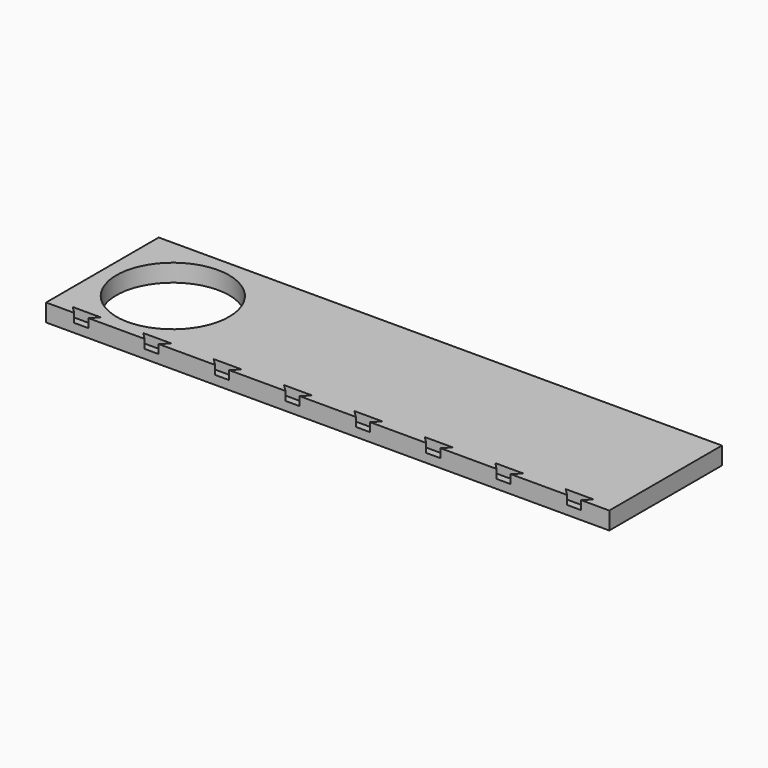
from build123d import *

# Parameters (mm, degrees)
F0_W     = 160
F0_H     = 40
F1_DEPTH = 5
F2_R     = 16
F3_DEPTH = 5
F5_DEPTH = 2.5


with BuildPart() as f1:
    # F0 (on Top) → F1 (new body)
    with BuildSketch(Plane.XY):
        with Locations((12.406252, 38.980732)):
            Rectangle(F0_W, F0_H)
    extrude(amount=F1_DEPTH)

    # F2 (on face) → F3 (cut)
    with BuildSketch(Plane.XY.offset(5)):
        with Locations((-47.593748, 38.980732)):
            Circle(F2_R)
    extrude(amount=-F3_DEPTH, mode=Mode.SUBTRACT)

    # F4 (on face) → F5 (cut)
    with BuildSketch(Plane.XY.offset(5)):
        Polygon((-53.593748, 20.980732), (-61.593748, 20.980732), (-59.593748, 18.980732), (-55.593748, 18.980732), align=None)
        Polygon((-33.593748, 20.980732), (-41.593748, 20.980732), (-39.593748, 18.980732), (-35.593748, 18.980732), align=None)
        Polygon((-13.593748, 20.980732), (-21.593748, 20.980732), (-19.593748, 18.980732), (-15.593748, 18.980732), align=None)
        Polygon((6.406252, 20.980732), (-1.593748, 20.980732), (0.406252, 18.980732), (4.406252, 18.980732), align=None)
        Polygon((26.406252, 20.980732), (18.406252, 20.980732), (20.406252, 18.980732), (24.406252, 18.980732), align=None)
        Polygon((44.406252, 18.980732), (46.406252, 20.980732), (38.406252, 20.980732), (40.406252, 18.980732), align=None)
        Polygon((64.406252, 18.980732), (66.406252, 20.980732), (58.406252, 20.980732), (60.406252, 18.980732), align=None)
        Polygon((84.406252, 18.980732), (86.406252, 20.980732), (78.406252, 20.980732), (80.406252, 18.980732), align=None)
    extrude(amount=-F5_DEPTH, mode=Mode.SUBTRACT)


solid = f1.part
